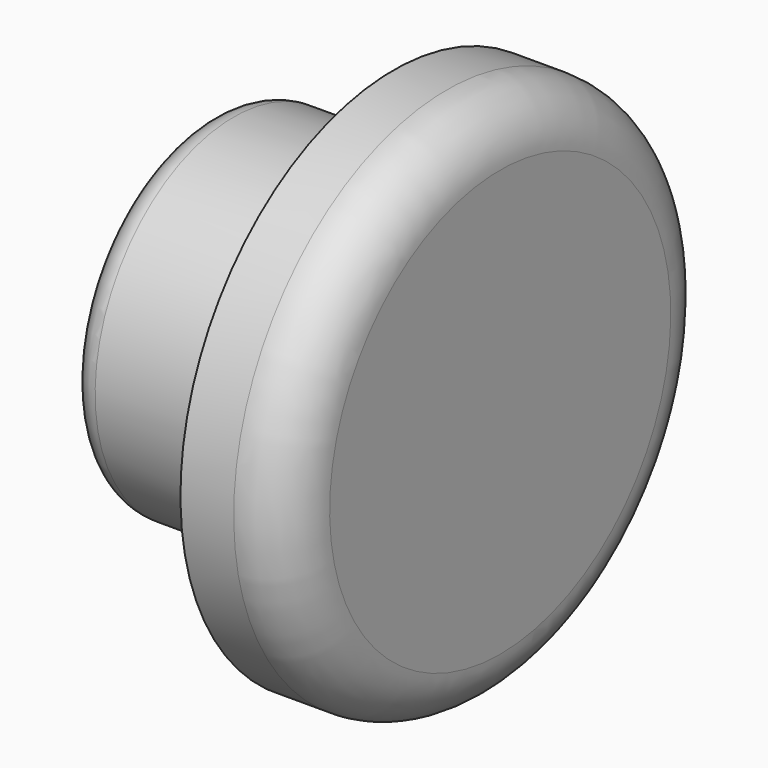
from build123d import *

# Parameters (mm, degrees)
TUBE_R            = 3.25
TUBE_R_2          = 1.25
TUBE_DEPTH        = 3.5
FILLET008_R       = 0.5
CYLINDER033_R     = 5
CYLINDER033_DEPTH = 2
FILLET007_R       = 1


with BuildPart() as fillet008:
    # Tube → Tube (new body)
    with BuildSketch(Plane(origin=(75.3, 6.35, 8.3), x_dir=(0, 0, -1), z_dir=(1, 0, 0))):
        Circle(TUBE_R)
        Circle(TUBE_R_2, mode=Mode.SUBTRACT)
    extrude(amount=TUBE_DEPTH)

    # Fillet008
    fillet008_edges = [fillet008.edges().sort_by_distance(p)[0] for p in [
        (75.3, 6.35, 11.55),
        (75.3, 6.35, 9.55),
    ]]
    fillet(fillet008_edges, radius=FILLET008_R)


with BuildPart() as dc_cap:
    # Cylinder033 → Cylinder033 (new body)
    with BuildSketch(Plane(origin=(78.8, 6.35, 8.3), x_dir=(0, 0, -1), z_dir=(1, 0, 0))):
        Circle(CYLINDER033_R)
    extrude(amount=CYLINDER033_DEPTH)

    # Fillet007
    fillet007_edges = [dc_cap.edges().sort_by_distance(p)[0] for p in [
        (80.8, 6.35, 13.3),
    ]]
    fillet(fillet007_edges, radius=FILLET007_R)

    # Fusion028: union Fillet008
    add(fillet008.part)


solid = dc_cap.part
